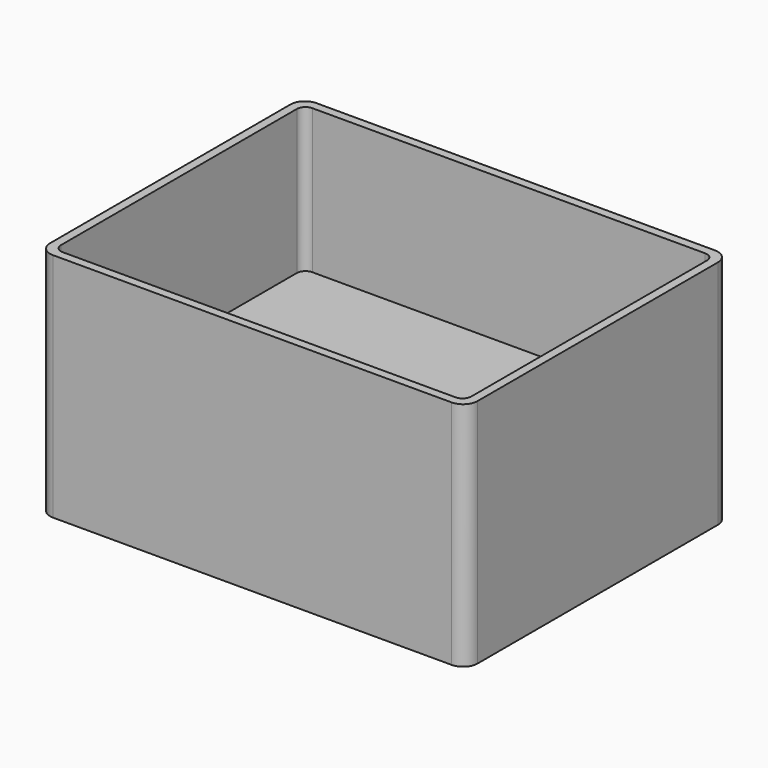
from build123d import *

# Parameters (mm, degrees)
F0_W     = 74
F0_H     = 57
F1_DEPTH = 40
F2_R     = 2.5
F3_W     = 71
F3_H     = 54
F4_DEPTH = 25
F5_R     = 1.5


with BuildPart() as f1:
    # F0 (on Top) → F1 (new body)
    with BuildSketch(Plane.XY):
        Rectangle(F0_W, F0_H)
    extrude(amount=F1_DEPTH)

    # F2
    f2_edges = [f1.edges().sort_by_distance(p)[0] for p in [
        (37, 28.5, 20),
        (37, -28.5, 20),
        (-37, -28.5, 20),
        (-37, 28.5, 20),
    ]]
    fillet(f2_edges, radius=F2_R)

    # F3 (on face) → F4 (cut)
    with BuildSketch(Plane.XY.offset(40)):
        Rectangle(F3_W, F3_H)
    extrude(amount=-F4_DEPTH, mode=Mode.SUBTRACT)

    # F5
    f5_edges = [f1.edges().sort_by_distance(p)[0] for p in [
        (35.5, -27, 27.5),
        (-35.5, -27, 27.5),
        (-35.5, 27, 27.5),
        (35.5, 27, 27.5),
    ]]
    fillet(f5_edges, radius=F5_R)


solid = f1.part
